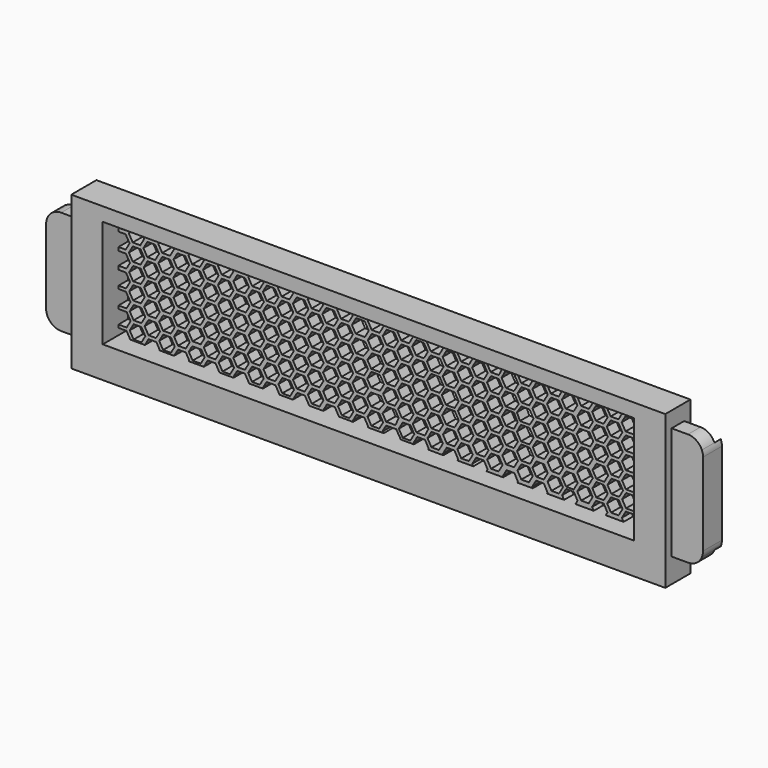
from build123d import *

# Parameters (mm, degrees)
F1_DEPTH = 6
F2_DEPTH = 2
F3_DEPTH = 8
F4_W     = 23
F4_H     = 4
F4_W_2   = 22.5
F5_DEPTH = 5
F6_DEPTH = 3


with BuildPart() as f1:
    # F0 (on Front) → F1 (new body)
    with BuildSketch(Plane.XZ):
        with BuildLine():
            Line((-85.422808, 9.222019), (-85.422808, 31.025267))
            ThreePointArc((-85.422808, 31.025267), (-85.64706, 30.296735), (-85.722808, 29.538243))
            Line((-85.722808, 29.538243), (-85.722808, 10.709043))
            ThreePointArc((-85.722808, 10.709043), (-85.64706, 9.950551), (-85.422808, 9.222019))
        make_face()
        with BuildLine():
            ThreePointArc((81.277192, 31.73826), (81.201444, 32.496752), (80.977192, 33.225284))
            Line((80.977192, 33.225284), (80.977192, 9.222019))
            ThreePointArc((80.977192, 9.222019), (81.201444, 9.950551), (81.277192, 10.709043))
            Line((81.277192, 10.709043), (81.277192, 31.73826))
        make_face()
        with BuildLine():
            Line((77.441792, 35.57366), (73.277192, 35.57366))
            Line((73.277192, 35.57366), (73.277192, 11.555429))
            Line((73.277192, 11.555429), (73.277192, 8.673643))
            Line((73.277192, 8.673643), (73.277192, 6.873643))
            Line((73.277192, 6.873643), (77.441792, 6.873643))
            ThreePointArc((77.441792, 6.873643), (79.563932, 7.514232), (80.977192, 9.222019))
            Line((80.977192, 9.222019), (80.977192, 33.225284))
            ThreePointArc((80.977192, 33.225284), (79.563932, 34.93307), (77.441792, 35.57366))
        make_face()
        Polygon((-69.722808, 39.57366), (-77.722808, 39.57366), (-77.722808, 36.101024), (-77.722808, 33.373643), (-77.722808, 15.555412), (-77.722808, 8.673643), (-77.722808, 6.873643), (-77.722808, 0.673643), (-69.722808, 0.673643), (65.277192, 0.673643), (73.277192, 0.673643), (73.277192, 6.873643), (73.277192, 8.673643), (73.277192, 11.555429), (73.277192, 35.57366), (73.277192, 39.57366), (65.277192, 39.57366), align=None)
        Polygon((-69.722808, 32.734791), (-69.722808, 36.101024), (-67.860355, 36.101024), (-66.85958, 36.101024), (-63.504682, 36.101024), (-62.491797, 36.101024), (-61.722808, 36.101024), (-60.302381, 36.101024), (-59.301607, 36.101024), (-58.722808, 36.101024), (-55.826406, 36.101024), (-54.813521, 36.101024), (-52.703507, 36.101024), (-51.702733, 36.101024), (-50.722808, 36.101024), (-48.391463, 36.101024), (-47.722808, 36.101024), (-47.378578, 36.101024), (-45.145534, 36.101024), (-44.14476, 36.101024), (-40.63569, 36.101024), (-39.722808, 36.101024), (-39.622805, 36.101024), (-37.447651, 36.101024), (-36.722808, 36.101024), (-36.446876, 36.101024), (-33.200748, 36.101024), (-32.187863, 36.101024), (-29.889677, 36.101024), (-28.888903, 36.101024), (-28.722808, 36.101024), (-25.722808, 36.101024), (-25.482402, 36.101024), (-24.469517, 36.101024), (-22.367012, 36.101024), (-21.366237, 36.101024), (-18.047459, 36.101024), (-17.722808, 36.101024), (-17.034574, 36.101024), (-14.809038, 36.101024), (-13.808264, 36.101024), (-10.6425, 36.101024), (-9.62435, 36.101024), (-6.902499, 36.101024), (-5.735991, 36.101024), (-2.722514, 36.101024), (-1.653215, 36.101024), (0.621126, 36.101024), (1.632544, 36.101024), (4.734077, 36.101024), (5.770914, 36.101024), (8.203433, 36.101024), (9.2415, 36.101024), (12.369307, 36.101024), (13.333306, 36.101024), (15.32699, 36.101024), (16.728552, 36.101024), (19.73759, 36.101024), (20.740602, 36.101024), (23.400282, 36.101024), (24.277192, 36.101024), (24.567515, 36.101024), (27.26276, 36.101024), (28.138225, 36.101024), (31.536045, 36.101024), (32.277192, 36.101024), (32.395089, 36.101024), (34.879542, 36.101024), (35.277192, 36.101024), (35.795435, 36.101024), (38.960265, 36.101024), (40.082366, 36.101024), (42.348032, 36.101024), (43.277192, 36.101024), (43.673012, 36.101024), (46.277192, 36.101024), (46.28527, 36.101024), (47.461446, 36.101024), (50.2453, 36.101024), (51.417317, 36.101024), (53.368453, 36.101024), (54.277192, 36.101024), (54.502689, 36.101024), (57.277192, 36.101024), (57.890565, 36.101024), (58.969307, 36.101024), (61.463302, 36.101024), (62.408669, 36.101024), (65.226473, 36.101024), (65.277192, 36.101024), (65.277192, 33.791259), (65.277192, 32.087259), (65.277192, 29.688526), (65.277192, 27.954504), (65.277192, 25.129406), (65.277192, 23.189055), (65.277192, 21.346921), (65.277192, 18.72137), (65.277192, 17.058082), (65.277192, 14.40296), (65.277192, 12.234595), (65.277192, 10.704704), (65.277192, 8.673643), (61.705402, 8.673643), (58.694264, 8.673643), (57.277192, 8.673643), (54.277192, 8.673643), (54.150706, 8.673643), (51.081302, 8.673643), (46.448752, 8.673643), (46.277192, 8.673643), (43.562767, 8.673643), (43.277192, 8.673643), (39.16903, 8.673643), (35.582665, 8.673643), (35.277192, 8.673643), (32.277192, 8.673643), (31.731004, 8.673643), (28.065354, 8.673643), (24.277192, 8.673643), (23.834723, 8.673643), (20.473113, 8.673643), (17.277192, 8.673643), (16.461746, 8.673643), (13.277192, 8.673643), (12.875776, 8.673643), (9.004685, 8.673643), (7.512836, 8.673643), (5.362624, 8.673643), (2.053913, 8.673643), (-2.30334, 8.673643), (-6.337833, 8.673643), (-10.086216, 8.673643), (-11.958453, 8.673643), (-13.772702, 8.673643), (-17.644153, 8.673643), (-17.722808, 8.673643), (-21.215137, 8.673643), (-25.395944, 8.673643), (-25.722808, 8.673643), (-28.722808, 8.673643), (-28.773073, 8.673643), (-33.021961, 8.673643), (-36.570876, 8.673643), (-40.458222, 8.673643), (-44.086937, 8.673643), (-47.722808, 8.673643), (-48.016159, 8.673643), (-50.722808, 8.673643), (-51.856406, 8.673643), (-55.580348, 8.673643), (-58.722808, 8.673643), (-59.232505, 8.673643), (-61.722808, 8.673643), (-63.015397, 8.673643), (-66.709528, 8.673643), (-69.722808, 8.673643), (-69.722808, 10.33091), (-69.722808, 11.078399), (-69.722808, 14.55916), (-69.722808, 15.344723), (-69.722808, 19.037227), (-69.722808, 19.782315), (-69.722808, 23.330104), (-69.722808, 24.25264), (-69.722808, 27.551966), (-69.722808, 28.431171), (-69.722808, 31.868539), align=None, mode=Mode.SUBTRACT)
        with BuildLine():
            Line((-77.722808, 15.555412), (-77.722808, 33.373643))
            Line((-77.722808, 33.373643), (-81.887408, 33.373643))
            ThreePointArc((-81.887408, 33.373643), (-84.009549, 32.733053), (-85.422808, 31.025267))
            Line((-85.422808, 31.025267), (-85.422808, 9.222019))
            ThreePointArc((-85.422808, 9.222019), (-84.009549, 7.514232), (-81.887408, 6.873643))
            Line((-81.887408, 6.873643), (-77.722808, 6.873643))
            Line((-77.722808, 6.873643), (-77.722808, 8.673643))
            Line((-77.722808, 8.673643), (-77.722808, 15.555412))
        make_face()
    extrude(amount=F1_DEPTH)

    # F0 (on Front) → F2 (cut)
    with BuildSketch(Plane.XZ):
        with BuildLine():
            Line((-77.722808, 15.555412), (-77.722808, 33.373643))
            Line((-77.722808, 33.373643), (-81.887408, 33.373643))
            ThreePointArc((-81.887408, 33.373643), (-84.009549, 32.733053), (-85.422808, 31.025267))
            Line((-85.422808, 31.025267), (-85.422808, 9.222019))
            ThreePointArc((-85.422808, 9.222019), (-84.009549, 7.514232), (-81.887408, 6.873643))
            Line((-81.887408, 6.873643), (-77.722808, 6.873643))
            Line((-77.722808, 6.873643), (-77.722808, 8.673643))
            Line((-77.722808, 8.673643), (-77.722808, 15.555412))
        make_face()
        with BuildLine():
            Line((77.441792, 35.57366), (73.277192, 35.57366))
            Line((73.277192, 35.57366), (73.277192, 11.555429))
            Line((73.277192, 11.555429), (73.277192, 8.673643))
            Line((73.277192, 8.673643), (73.277192, 6.873643))
            Line((73.277192, 6.873643), (77.441792, 6.873643))
            ThreePointArc((77.441792, 6.873643), (79.563932, 7.514232), (80.977192, 9.222019))
            Line((80.977192, 9.222019), (80.977192, 33.225284))
            ThreePointArc((80.977192, 33.225284), (79.563932, 34.93307), (77.441792, 35.57366))
        make_face()
    extrude(amount=F2_DEPTH, mode=Mode.SUBTRACT)

    # F0 (on Front) → F3 (join)
    with BuildSketch(Plane.XZ):
        Polygon((-69.722808, 39.57366), (-77.722808, 39.57366), (-77.722808, 36.101024), (-77.722808, 33.373643), (-77.722808, 15.555412), (-77.722808, 8.673643), (-77.722808, 6.873643), (-77.722808, 0.673643), (-69.722808, 0.673643), (65.277192, 0.673643), (73.277192, 0.673643), (73.277192, 6.873643), (73.277192, 8.673643), (73.277192, 11.555429), (73.277192, 35.57366), (73.277192, 39.57366), (65.277192, 39.57366), align=None)
        Polygon((-69.722808, 32.734791), (-69.722808, 36.101024), (-67.860355, 36.101024), (-66.85958, 36.101024), (-63.504682, 36.101024), (-62.491797, 36.101024), (-61.722808, 36.101024), (-60.302381, 36.101024), (-59.301607, 36.101024), (-58.722808, 36.101024), (-55.826406, 36.101024), (-54.813521, 36.101024), (-52.703507, 36.101024), (-51.702733, 36.101024), (-50.722808, 36.101024), (-48.391463, 36.101024), (-47.722808, 36.101024), (-47.378578, 36.101024), (-45.145534, 36.101024), (-44.14476, 36.101024), (-40.63569, 36.101024), (-39.722808, 36.101024), (-39.622805, 36.101024), (-37.447651, 36.101024), (-36.722808, 36.101024), (-36.446876, 36.101024), (-33.200748, 36.101024), (-32.187863, 36.101024), (-29.889677, 36.101024), (-28.888903, 36.101024), (-28.722808, 36.101024), (-25.722808, 36.101024), (-25.482402, 36.101024), (-24.469517, 36.101024), (-22.367012, 36.101024), (-21.366237, 36.101024), (-18.047459, 36.101024), (-17.722808, 36.101024), (-17.034574, 36.101024), (-14.809038, 36.101024), (-13.808264, 36.101024), (-10.6425, 36.101024), (-9.62435, 36.101024), (-6.902499, 36.101024), (-5.735991, 36.101024), (-2.722514, 36.101024), (-1.653215, 36.101024), (0.621126, 36.101024), (1.632544, 36.101024), (4.734077, 36.101024), (5.770914, 36.101024), (8.203433, 36.101024), (9.2415, 36.101024), (12.369307, 36.101024), (13.333306, 36.101024), (15.32699, 36.101024), (16.728552, 36.101024), (19.73759, 36.101024), (20.740602, 36.101024), (23.400282, 36.101024), (24.277192, 36.101024), (24.567515, 36.101024), (27.26276, 36.101024), (28.138225, 36.101024), (31.536045, 36.101024), (32.277192, 36.101024), (32.395089, 36.101024), (34.879542, 36.101024), (35.277192, 36.101024), (35.795435, 36.101024), (38.960265, 36.101024), (40.082366, 36.101024), (42.348032, 36.101024), (43.277192, 36.101024), (43.673012, 36.101024), (46.277192, 36.101024), (46.28527, 36.101024), (47.461446, 36.101024), (50.2453, 36.101024), (51.417317, 36.101024), (53.368453, 36.101024), (54.277192, 36.101024), (54.502689, 36.101024), (57.277192, 36.101024), (57.890565, 36.101024), (58.969307, 36.101024), (61.463302, 36.101024), (62.408669, 36.101024), (65.226473, 36.101024), (65.277192, 36.101024), (65.277192, 33.791259), (65.277192, 32.087259), (65.277192, 29.688526), (65.277192, 27.954504), (65.277192, 25.129406), (65.277192, 23.189055), (65.277192, 21.346921), (65.277192, 18.72137), (65.277192, 17.058082), (65.277192, 14.40296), (65.277192, 12.234595), (65.277192, 10.704704), (65.277192, 8.673643), (61.705402, 8.673643), (58.694264, 8.673643), (57.277192, 8.673643), (54.277192, 8.673643), (54.150706, 8.673643), (51.081302, 8.673643), (46.448752, 8.673643), (46.277192, 8.673643), (43.562767, 8.673643), (43.277192, 8.673643), (39.16903, 8.673643), (35.582665, 8.673643), (35.277192, 8.673643), (32.277192, 8.673643), (31.731004, 8.673643), (28.065354, 8.673643), (24.277192, 8.673643), (23.834723, 8.673643), (20.473113, 8.673643), (17.277192, 8.673643), (16.461746, 8.673643), (13.277192, 8.673643), (12.875776, 8.673643), (9.004685, 8.673643), (7.512836, 8.673643), (5.362624, 8.673643), (2.053913, 8.673643), (-2.30334, 8.673643), (-6.337833, 8.673643), (-10.086216, 8.673643), (-11.958453, 8.673643), (-13.772702, 8.673643), (-17.644153, 8.673643), (-17.722808, 8.673643), (-21.215137, 8.673643), (-25.395944, 8.673643), (-25.722808, 8.673643), (-28.722808, 8.673643), (-28.773073, 8.673643), (-33.021961, 8.673643), (-36.570876, 8.673643), (-40.458222, 8.673643), (-44.086937, 8.673643), (-47.722808, 8.673643), (-48.016159, 8.673643), (-50.722808, 8.673643), (-51.856406, 8.673643), (-55.580348, 8.673643), (-58.722808, 8.673643), (-59.232505, 8.673643), (-61.722808, 8.673643), (-63.015397, 8.673643), (-66.709528, 8.673643), (-69.722808, 8.673643), (-69.722808, 10.33091), (-69.722808, 11.078399), (-69.722808, 14.55916), (-69.722808, 15.344723), (-69.722808, 19.037227), (-69.722808, 19.782315), (-69.722808, 23.330104), (-69.722808, 24.25264), (-69.722808, 27.551966), (-69.722808, 28.431171), (-69.722808, 31.868539), align=None, mode=Mode.SUBTRACT)
    extrude(amount=F3_DEPTH)

    # F4 (on Top) → F5 (cut)
    with BuildSketch(Plane.XY):
        Polygon((-75.366058, -1.990048), (-75.366058, -5.990048), (-52.866058, -5.990048), (-52.866058, -3.990048), (-52.866058, -1.990048), align=None)
        Polygon((-42.866058, -1.990048), (-42.866058, -5.990048), (-19.866058, -5.990048), (-19.866058, -3.990048), (-19.866058, -1.990048), align=None)
        with Locations((23.633942, -3.990048)):
            Rectangle(F4_W, F4_H)
        with Locations((56.383942, -3.990048)):
            Rectangle(F4_W_2, F4_H)
    extrude(amount=F5_DEPTH, mode=Mode.SUBTRACT)

    # F0 (on Front) → F6 (join)
    with BuildSketch(Plane.XZ):
        Polygon((-67.900562, 32.734791), (-69.722808, 32.734791), (-69.722808, 31.868539), (-67.89291, 31.868539), (-66.899888, 30.149599), (-67.892023, 28.431171), (-69.722808, 28.431171), (-69.722808, 27.551966), (-67.818789, 27.551966), (-66.80242, 25.791564), (-67.689859, 24.25264), (-69.722808, 24.25264), (-69.722808, 23.330104), (-67.80162, 23.330104), (-66.765981, 21.536325), (-67.777452, 19.782315), (-69.722808, 19.782315), (-69.722808, 19.037227), (-67.799284, 19.037227), (-66.674846, 17.089644), (-67.681076, 15.344723), (-69.722808, 15.344723), (-69.722808, 14.55916), (-67.631376, 14.55916), (-66.636999, 12.836849), (-67.65103, 11.078399), (-69.722808, 11.078399), (-69.722808, 10.33091), (-67.666351, 10.33091), (-66.709528, 8.673643), (-63.015397, 8.673643), (-62.083938, 10.288903), (-60.099668, 10.288903), (-59.232505, 8.787828), (-59.232505, 8.673643), (-58.722808, 8.673643), (-55.580348, 8.673643), (-55.254191, 9.239422), (-54.587535, 10.395482), (-52.603266, 10.395482), (-51.736103, 8.894407), (-51.856406, 8.673643), (-50.722808, 8.673643), (-48.016159, 8.673643), (-48.035818, 8.707693), (-47.04457, 10.426633), (-45.060301, 10.426633), (-44.067278, 8.707693), (-44.086937, 8.673643), (-40.458222, 8.673643), (-40.539415, 8.814273), (-39.548168, 10.533213), (-37.563898, 10.533213), (-36.570876, 8.814273), (-36.570876, 8.673643), (-33.021961, 8.673643), (-33.021961, 8.837327), (-32.093947, 10.467856), (-29.808963, 10.467856), (-28.773073, 8.673643), (-28.722808, 8.673643), (-25.722808, 8.673643), (-25.395944, 8.673643), (-24.314109, 10.574435), (-22.31256, 10.574435), (-21.215137, 8.673643), (-17.722808, 8.673643), (-17.644153, 8.673643), (-17.692697, 8.757724), (-16.70145, 10.476664), (-14.71718, 10.476664), (-13.724158, 8.757724), (-13.772702, 8.673643), (-11.958453, 8.673643), (-10.086216, 8.673643), (-10.196294, 8.864304), (-9.205047, 10.583244), (-7.220777, 10.583244), (-6.227755, 8.864304), (-6.337833, 8.673643), (-2.30334, 8.673643), (-2.67884, 8.887359), (-1.713628, 10.583244), (0.88745, 10.613559), (2.053913, 8.673643), (5.362624, 8.673643), (5.232151, 8.899629), (6.223399, 10.618569), (8.207668, 10.618569), (9.151395, 8.928055), (9.004685, 8.673643), (12.875776, 8.673643), (12.717241, 8.948233), (13.708489, 10.667174), (15.692758, 10.667174), (16.636485, 8.97666), (16.461746, 8.673643), (17.277192, 8.673643), (20.473113, 8.673643), (20.202331, 9.142651), (21.193578, 10.861591), (23.177848, 10.861591), (24.121575, 9.171078), (23.834723, 8.673643), (24.277192, 8.673643), (28.065354, 8.673643), (27.930442, 8.851024), (28.921689, 10.569964), (30.905959, 10.569964), (31.849686, 8.879451), (31.731004, 8.673643), (32.277192, 8.673643), (35.277192, 8.673643), (35.582665, 8.673643), (35.424327, 8.947892), (36.415575, 10.666832), (38.399844, 10.666832), (39.343571, 8.976318), (39.16903, 8.673643), (43.277192, 8.673643), (43.562767, 8.673643), (43.054031, 9.5548), (44.045278, 11.27374), (46.029548, 11.27374), (46.973275, 9.583227), (46.448752, 8.673643), (51.081302, 8.673643), (50.66433, 9.39586), (51.655577, 11.1148), (53.639847, 11.1148), (54.583574, 9.424287), (54.150706, 8.673643), (54.277192, 8.673643), (57.277192, 8.673643), (58.694264, 8.673643), (58.248141, 9.44635), (59.239389, 11.16529), (61.223659, 11.16529), (62.167386, 9.474776), (61.705402, 8.673643), (65.277192, 8.673643), (65.277192, 10.704704), (64.703805, 9.710384), (62.784041, 9.710384), (61.791906, 11.428812), (62.783153, 13.147752), (64.767423, 13.147752), (65.277192, 12.234595), (65.277192, 14.40296), (65.051753, 14.012489), (63.067483, 14.012489), (62.075348, 15.730917), (63.059126, 17.436904), (63.066596, 17.449857), (65.050865, 17.449857), (65.058348, 17.436904), (65.277192, 17.058082), (65.277192, 18.72137), (65.043214, 18.316109), (63.058944, 18.316109), (62.066809, 20.034537), (63.058057, 21.753477), (65.042327, 21.753477), (65.277192, 21.346921), (65.277192, 23.189055), (64.825254, 22.640269), (64.809365, 22.620974), (62.979874, 22.620974), (61.963076, 24.381071), (62.849279, 25.938137), (62.865697, 25.938137), (64.746633, 25.938137), (65.277192, 25.129406), (65.277192, 27.954504), (64.850599, 27.174192), (64.828135, 27.140885), (62.791183, 27.140885), (61.928543, 28.634131), (62.874073, 30.295435), (64.821698, 30.295435), (65.277192, 29.688526), (65.277192, 32.087259), (64.821698, 31.306949), (64.788554, 31.25017), (62.894911, 31.25017), (62.016642, 32.77047), (63.096936, 34.435747), (64.558635, 34.435747), (65.277192, 33.791259), (65.277192, 36.101024), (65.226473, 36.101024), (64.50658, 35.303304), (63.006482, 35.303304), (62.989525, 35.32327), (62.408669, 36.101024), (61.463302, 36.101024), (62.176136, 35.041956), (61.055984, 33.435658), (61.015878, 33.378569), (59.103888, 33.378569), (58.124531, 35.073853), (58.969307, 36.101024), (57.890565, 36.101024), (57.333602, 35.499248), (55.007888, 35.499248), (54.913294, 35.593808), (54.502689, 36.101024), (54.277192, 36.101024), (53.368453, 36.101024), (54.380913, 34.633636), (53.595703, 33.271989), (51.607485, 33.271989), (50.681565, 34.874774), (50.742224, 34.975871), (51.417317, 36.101024), (50.2453, 36.101024), (49.909764, 35.392669), (47.776271, 35.392669), (47.461446, 36.101024), (46.28527, 36.101024), (47.116197, 34.928829), (46.311205, 33.532878), (43.90439, 33.532878), (42.973255, 35.14469), (43.673012, 36.101024), (43.277192, 36.101024), (42.348032, 36.101024), (41.988134, 35.653557), (40.326439, 35.653557), (40.082366, 36.101024), (38.960265, 36.101024), (39.403755, 35.173508), (38.396205, 33.426298), (36.407987, 33.426298), (35.407451, 35.158245), (35.795435, 36.101024), (35.277192, 36.101024), (34.879542, 36.101024), (34.572903, 35.546978), (32.719098, 35.546978), (32.395089, 36.101024), (32.277192, 36.101024), (31.536045, 36.101024), (31.973732, 35.18204), (30.890156, 33.30299), (28.735311, 33.30299), (27.476182, 35.130027), (28.138225, 36.101024), (27.26276, 36.101024), (26.798842, 35.281916), (25.04808, 35.281916), (24.567515, 36.101024), (24.277192, 36.101024), (23.400282, 36.101024), (24.296766, 35.015807), (23.057308, 33.318717), (21.126376, 33.318717), (19.984476, 34.872144), (20.740602, 36.101024), (19.73759, 36.101024), (19.079241, 35.224886), (17.268282, 35.271321), (16.728552, 36.101024), (15.32699, 36.101024), (16.469217, 34.647281), (15.494077, 33.212137), (13.565206, 33.212137), (12.442085, 34.689924), (13.333306, 36.101024), (12.369307, 36.101024), (11.713491, 35.169426), (10.131817, 35.169426), (9.897516, 35.169426), (9.2415, 36.101024), (8.203433, 36.101024), (8.996173, 34.824643), (7.740019, 33.080827), (5.856353, 33.080827), (4.848961, 34.824643), (5.770914, 36.101024), (4.734077, 36.101024), (4.13606, 35.201507), (2.235144, 35.201507), (1.632544, 36.101024), (0.621126, 36.101024), (1.356816, 34.723362), (0.348168, 32.974248), (-1.640049, 32.974248), (-2.58907, 34.617021), (-1.653215, 36.101024), (-2.722514, 36.101024), (-3.45158, 35.094927), (-5.29855, 35.094927), (-5.735991, 36.101024), (-6.902499, 36.101024), (-6.123804, 34.644152), (-7.192117, 32.791571), (-7.194672, 32.793045), (-9.335804, 32.793045), (-10.416784, 34.664242), (-9.62435, 36.101024), (-10.6425, 36.101024), (-11.374111, 35.054961), (-13.203959, 35.054961), (-13.808264, 36.101024), (-14.809038, 36.101024), (-13.936757, 34.591088), (-14.928892, 32.87266), (-16.913162, 32.87266), (-17.905296, 34.591088), (-17.034574, 36.101024), (-17.722808, 36.101024), (-18.047459, 36.101024), (-18.712144, 34.948382), (-20.700362, 34.948382), (-21.366237, 36.101024), (-22.367012, 36.101024), (-21.43316, 34.484509), (-22.425295, 32.766081), (-24.409564, 32.766081), (-25.401699, 34.484509), (-24.469517, 36.101024), (-25.482402, 36.101024), (-26.049334, 35.117896), (-28.320955, 35.117896), (-28.888903, 36.101024), (-29.889677, 36.101024), (-29.053753, 34.654023), (-30.045888, 32.935596), (-32.030158, 32.935596), (-33.022293, 34.654023), (-32.187863, 36.101024), (-33.200748, 36.101024), (-33.82914, 35.011317), (-35.817358, 35.011317), (-36.446876, 36.101024), (-36.722808, 36.101024), (-37.447651, 36.101024), (-36.550156, 34.547444), (-37.542291, 32.829016), (-39.526561, 32.829016), (-40.518695, 34.547444), (-39.622805, 36.101024), (-39.722808, 36.101024), (-40.63569, 36.101024), (-41.235164, 35.061465), (-43.544212, 35.061465), (-44.14476, 36.101024), (-45.145534, 36.101024), (-44.27701, 34.597593), (-45.269145, 32.879165), (-47.253415, 32.879165), (-48.24555, 34.597593), (-47.378578, 36.101024), (-47.722808, 36.101024), (-48.391463, 36.101024), (-49.052397, 34.954886), (-51.040615, 34.954886), (-51.702733, 36.101024), (-52.703507, 36.101024), (-51.773413, 34.491013), (-52.765548, 32.772585), (-54.749818, 32.772585), (-55.741953, 34.491013), (-54.813521, 36.101024), (-55.826406, 36.101024), (-56.447674, 35.023671), (-58.679226, 35.023671), (-59.301607, 36.101024), (-60.302381, 36.101024), (-59.412024, 34.559798), (-60.404159, 32.84137), (-62.388428, 32.84137), (-63.380563, 34.559798), (-62.491797, 36.101024), (-63.504682, 36.101024), (-64.187411, 34.917091), (-66.175629, 34.917091), (-66.85958, 36.101024), (-67.860355, 36.101024), (-66.908427, 34.453219), align=None)
        Polygon((-62.89321, 10.690642), (-63.885345, 8.972214), (-65.869614, 8.972214), (-66.861749, 10.690642), (-65.877971, 12.39663), (-65.870502, 12.409583), (-63.886232, 12.409583), (-63.878749, 12.39663), align=None, mode=Mode.SUBTRACT)
        Polygon((-62.901749, 14.994262), (-63.893883, 13.275834), (-65.878153, 13.275834), (-66.870288, 14.994262), (-65.879041, 16.713202), (-63.894771, 16.713202), align=None, mode=Mode.SUBTRACT)
        Polygon((-55.396807, 10.797222), (-56.388942, 9.078794), (-58.373212, 9.078794), (-59.365346, 10.797222), (-58.374099, 12.516162), (-56.389829, 12.516162), align=None, mode=Mode.SUBTRACT)
        Polygon((-50.871733, 9.130527), (-51.847892, 10.820277), (-50.999853, 12.310288), (-48.651914, 12.310288), (-47.811067, 10.853899), (-48.804871, 9.130527), align=None, mode=Mode.SUBTRACT)
        Polygon((-60.108207, 14.592523), (-59.16448, 12.90201), (-60.171825, 11.155155), (-62.091589, 11.155155), (-63.083724, 12.873583), (-62.092477, 14.592523), align=None, mode=Mode.SUBTRACT)
        Polygon((-58.382638, 16.819782), (-56.398916, 16.819782), (-56.398368, 16.819782), (-55.405346, 15.100842), (-55.405915, 15.099855), (-56.397481, 13.382414), (-58.38175, 13.382414), (-59.373885, 15.100842), align=None, mode=Mode.SUBTRACT)
        Polygon((-51.618782, 12.980162), (-52.610917, 11.261734), (-54.595187, 11.261734), (-55.587321, 12.980162), (-54.596074, 14.699102), (-52.611804, 14.699102), align=None, mode=Mode.SUBTRACT)
        Polygon((-48.044357, 13.011313), (-47.065018, 14.709601), (-45.056909, 14.709601), (-44.075817, 13.011313), (-45.067952, 11.292885), (-47.052222, 11.292885), align=None, mode=Mode.SUBTRACT)
        Polygon((-51.939244, 15.267248), (-51.049645, 16.830281), (-48.80608, 16.830281), (-47.829952, 15.139578), (-48.81027, 13.439592), (-50.883417, 13.439592), align=None, mode=Mode.SUBTRACT)
        Polygon((-63.022192, 19.390119), (-64.014327, 17.671691), (-65.998597, 17.671691), (-66.990732, 19.390119), (-65.999484, 21.109059), (-64.015215, 21.109059), align=None, mode=Mode.SUBTRACT)
        Polygon((-59.235629, 17.269439), (-60.227764, 15.551012), (-62.212033, 15.551012), (-63.204168, 17.269439), (-62.212921, 18.98838), (-60.228651, 18.98838), align=None, mode=Mode.SUBTRACT)
        Polygon((-51.739226, 17.376019), (-52.731361, 15.657591), (-54.71563, 15.657591), (-55.707765, 17.376019), (-54.723987, 19.082006), (-54.716518, 19.094959), (-52.732248, 19.094959), (-52.724765, 19.082006), align=None, mode=Mode.SUBTRACT)
        Polygon((-44.100615, 17.307234), (-45.09275, 15.588806), (-47.07702, 15.588806), (-48.069155, 17.307234), (-47.077907, 19.026174), (-45.093638, 19.026174), align=None, mode=Mode.SUBTRACT)
        Polygon((-55.52579, 19.496698), (-56.517924, 17.77827), (-58.502194, 17.77827), (-59.494329, 19.496698), (-58.503082, 21.215639), (-56.518812, 21.215639), align=None, mode=Mode.SUBTRACT)
        Polygon((-47.887179, 19.427914), (-48.879314, 17.709486), (-50.863584, 17.709486), (-51.855718, 19.427914), (-50.864471, 21.146854), (-48.880201, 21.146854), align=None, mode=Mode.SUBTRACT)
        Polygon((-41.282276, 12.609574), (-40.338549, 10.91906), (-41.345894, 9.172206), (-43.265658, 9.172206), (-44.257793, 10.890634), (-43.266546, 12.609574), align=None, mode=Mode.SUBTRACT)
        Polygon((-32.792851, 10.997213), (-33.784986, 9.278785), (-35.769255, 9.278785), (-36.76139, 10.997213), (-35.770143, 12.716153), (-33.785873, 12.716153), align=None, mode=Mode.SUBTRACT)
        Polygon((-25.103498, 10.944809), (-26.095633, 9.226381), (-28.079903, 9.226381), (-29.072038, 10.944809), (-28.08079, 12.663749), (-26.096521, 12.663749), align=None, mode=Mode.SUBTRACT)
        Polygon((-36.579414, 13.117892), (-37.571549, 11.399464), (-39.555819, 11.399464), (-40.547954, 13.117892), (-39.556706, 14.836833), (-37.572437, 14.836833), align=None, mode=Mode.SUBTRACT)
        Polygon((-44.372397, 15.072374), (-43.311226, 16.93686), (-41.309677, 16.93686), (-40.333549, 15.246157), (-41.354801, 13.475186), (-43.343019, 13.475186), align=None, mode=Mode.SUBTRACT)
        Polygon((-36.897546, 15.141087), (-35.904025, 16.886712), (-33.582822, 16.886712), (-32.729961, 15.409512), (-33.802677, 13.581765), (-35.846616, 13.581765), align=None, mode=Mode.SUBTRACT)
        Polygon((-28.890062, 13.065488), (-29.882197, 11.34706), (-31.866467, 11.34706), (-32.858601, 13.065488), (-31.867354, 14.784428), (-29.883084, 14.784428), align=None, mode=Mode.SUBTRACT)
        Polygon((-21.393659, 13.172068), (-22.385794, 11.45364), (-24.370064, 11.45364), (-25.362199, 13.172068), (-24.370951, 14.891008), (-22.386681, 14.891008), align=None, mode=Mode.SUBTRACT)
        Polygon((-26.105059, 16.967369), (-25.161333, 15.276856), (-26.168677, 13.530001), (-28.088442, 13.530001), (-29.080577, 15.248429), (-28.089329, 16.967369), align=None, mode=Mode.SUBTRACT)
        Polygon((-17.607096, 11.051388), (-18.59923, 9.33296), (-20.5835, 9.33296), (-21.575635, 11.051388), (-20.584388, 12.770328), (-18.600118, 12.770328), align=None, mode=Mode.SUBTRACT)
        Polygon((-10.939155, 12.659605), (-9.995428, 10.969092), (-11.002773, 9.222237), (-12.922538, 9.222237), (-13.914672, 10.940665), (-12.923425, 12.659605), align=None, mode=Mode.SUBTRACT)
        Polygon((-2.44973, 11.047244), (-3.441865, 9.328816), (-5.426135, 9.328816), (-6.41827, 11.047244), (-5.427022, 12.766184), (-3.442752, 12.766184), align=None, mode=Mode.SUBTRACT)
        Polygon((-13.732697, 13.061344), (-14.724831, 11.342916), (-16.709101, 11.342916), (-17.701236, 13.061344), (-16.709989, 14.780284), (-14.725719, 14.780284), align=None, mode=Mode.SUBTRACT)
        Polygon((-6.236294, 13.167924), (-7.228429, 11.449496), (-9.212698, 11.449496), (-10.204833, 13.167924), (-9.213586, 14.886864), (-7.229316, 14.886864), align=None, mode=Mode.SUBTRACT)
        Polygon((-10.969424, 16.930356), (-10.008172, 15.26542), (-11.011681, 13.525217), (-12.999899, 13.525217), (-13.961564, 15.189878), (-12.970973, 16.930356), align=None, mode=Mode.SUBTRACT)
        Polygon((-5.503496, 13.631796), (-6.465162, 15.296458), (-5.626649, 16.76973), (-3.076266, 16.76973), (-2.211232, 15.271447), (-3.445359, 13.631796), align=None, mode=Mode.SUBTRACT)
        Polygon((-36.604212, 17.413813), (-37.596347, 15.695385), (-39.580617, 15.695385), (-40.572752, 17.413813), (-39.581505, 19.132754), (-37.597235, 19.132754), align=None, mode=Mode.SUBTRACT)
        Polygon((-31.853763, 15.645237), (-31.856905, 15.65068), (-31.875005, 15.65068), (-32.86714, 17.369108), (-31.879032, 19.082605), (-31.85465, 19.082605), (-29.888478, 19.082605), (-29.87038, 19.082605), (-29.862898, 19.069652), (-28.877358, 17.363665), (-29.869493, 15.645237), align=None, mode=Mode.SUBTRACT)
        Polygon((-22.369947, 15.75726), (-22.394333, 15.75726), (-24.378602, 15.75726), (-25.370737, 17.475688), (-24.37949, 19.194628), (-22.39522, 19.194628), (-22.377228, 19.194628), (-22.373978, 19.189184), (-21.380955, 17.470244), align=None, mode=Mode.SUBTRACT)
        Polygon((-40.390776, 19.534493), (-41.382911, 17.816065), (-43.367181, 17.816065), (-44.359316, 19.534493), (-43.368068, 21.253433), (-41.383798, 21.253433), align=None, mode=Mode.SUBTRACT)
        Polygon((-32.663922, 19.484344), (-33.656057, 17.765916), (-35.640326, 17.765916), (-36.632461, 19.484344), (-35.648683, 21.190331), (-35.641214, 21.203284), (-33.656944, 21.203284), (-33.649461, 21.190331), align=None, mode=Mode.SUBTRACT)
        Polygon((-25.165681, 19.587742), (-25.173887, 19.573512), (-26.177585, 17.832981), (-28.165803, 17.832981), (-29.16092, 19.555548), (-29.136058, 19.590924), (-28.144811, 21.309864), (-26.160541, 21.309864), (-25.167519, 19.590924), align=None, mode=Mode.SUBTRACT)
        Polygon((-17.615634, 15.355008), (-18.607769, 13.63658), (-20.592039, 13.63658), (-21.584174, 15.355008), (-20.592926, 17.073948), (-18.608657, 17.073948), align=None, mode=Mode.SUBTRACT)
        Polygon((-13.760362, 17.30073), (-14.752497, 15.582302), (-16.736767, 15.582302), (-17.728901, 17.30073), (-16.737654, 19.01967), (-14.753384, 19.01967), align=None, mode=Mode.SUBTRACT)
        Polygon((-6.263959, 17.407309), (-7.256094, 15.688881), (-9.240364, 15.688881), (-10.232499, 17.407309), (-9.241251, 19.126249), (-7.256981, 19.126249), align=None, mode=Mode.SUBTRACT)
        Polygon((-17.546926, 19.421409), (-18.402471, 17.93956), (-20.659919, 17.93956), (-21.515465, 19.421409), (-20.524218, 21.140349), (-18.539948, 21.140349), align=None, mode=Mode.SUBTRACT)
        Polygon((-10.050523, 19.527989), (-11.042658, 17.809561), (-13.026927, 17.809561), (-14.019062, 19.527989), (-13.027815, 21.246929), (-11.043545, 21.246929), align=None, mode=Mode.SUBTRACT)
        Polygon((-5.535772, 17.879163), (-6.501608, 19.551043), (-5.446928, 21.404125), (-3.275777, 21.404125), (-2.230402, 19.593482), (-3.218984, 17.879163), align=None, mode=Mode.SUBTRACT)
        Polygon((4.528018, 12.668416), (5.471745, 10.977903), (4.4644, 9.231048), (2.544636, 9.231048), (1.552501, 10.949476), (2.543748, 12.668416), align=None, mode=Mode.SUBTRACT)
        Polygon((11.806522, 12.921734), (12.750249, 11.231221), (11.742905, 9.484366), (9.82314, 9.484366), (8.831005, 11.202794), (9.822253, 12.921734), align=None, mode=Mode.SUBTRACT)
        Polygon((19.407629, 12.904662), (20.351356, 11.214149), (19.344011, 9.467294), (17.424247, 9.467294), (16.432112, 11.185722), (17.423359, 12.904662), align=None, mode=Mode.SUBTRACT)
        Polygon((-1.679723, 11.446707), (-2.600732, 13.040991), (-1.360921, 14.849643), (0.594486, 14.849643), (1.48699, 13.303781), (0.7241, 11.475794), (-1.449251, 11.449496), align=None, mode=Mode.SUBTRACT)
        Polygon((5.063779, 13.154304), (6.08934, 14.956222), (8.090889, 14.956222), (9.053221, 13.289413), (8.161594, 11.565788), (6.03709, 11.540081), align=None, mode=Mode.SUBTRACT)
        Polygon((15.740212, 15.011744), (16.683939, 13.321231), (15.676594, 11.574376), (13.75683, 11.574376), (12.764695, 13.292804), (13.755942, 15.011744), align=None, mode=Mode.SUBTRACT)
        Polygon((26.968998, 13.048793), (27.912725, 11.358279), (26.90538, 9.611425), (24.985616, 9.611425), (23.993481, 11.329853), (24.984728, 13.048793), align=None, mode=Mode.SUBTRACT)
        Polygon((34.671693, 13.123366), (35.61542, 11.432853), (34.608075, 9.685998), (32.688311, 9.685998), (31.696176, 11.404426), (32.687423, 13.123366), align=None, mode=Mode.SUBTRACT)
        Polygon((24.32709, 13.443806), (23.334955, 11.725378), (21.350686, 11.725378), (20.358551, 13.443806), (21.342329, 15.149793), (21.349798, 15.162746), (23.334068, 15.162746), (23.341551, 15.149793), align=None, mode=Mode.SUBTRACT)
        Polygon((31.823493, 13.550385), (30.831358, 11.831957), (28.847088, 11.831957), (27.854953, 13.550385), (28.838731, 15.256372), (28.846201, 15.269325), (30.830471, 15.269325), (30.837953, 15.256372), align=None, mode=Mode.SUBTRACT)
        Polygon((38.466952, 14.99034), (39.410679, 13.299827), (38.403334, 11.552972), (36.483569, 11.552972), (35.491435, 13.2714), (36.482682, 14.99034), align=None, mode=Mode.SUBTRACT)
        Polygon((5.299951, 15.326596), (4.307816, 13.608168), (2.323546, 13.608168), (1.331411, 15.326596), (2.322659, 17.045536), (4.306928, 17.045536), align=None, mode=Mode.SUBTRACT)
        Polygon((1.513387, 17.447275), (0.521252, 15.728847), (-1.463018, 15.728847), (-2.455152, 17.447275), (-1.463905, 19.166215), (0.520365, 19.166215), align=None, mode=Mode.SUBTRACT)
        Polygon((9.00979, 17.553855), (8.017655, 15.835427), (6.033385, 15.835427), (5.04125, 17.553855), (6.032498, 19.272795), (8.016767, 19.272795), align=None, mode=Mode.SUBTRACT)
        Polygon((12.796353, 15.433175), (11.804219, 13.714747), (9.819949, 13.714747), (8.827814, 15.433175), (9.819061, 17.152115), (11.803331, 17.152115), align=None, mode=Mode.SUBTRACT)
        Polygon((20.540526, 15.564485), (19.548392, 13.846057), (17.564122, 13.846057), (16.571987, 15.564485), (17.563234, 17.283425), (19.547504, 17.283425), align=None, mode=Mode.SUBTRACT)
        Polygon((13.581725, 15.806042), (12.558704, 17.57691), (13.64601, 19.487314), (15.771004, 19.487314), (16.796738, 17.710691), (15.698399, 15.806042), align=None, mode=Mode.SUBTRACT)
        Polygon((4.29839, 21.349156), (5.242116, 19.658643), (4.234772, 17.911788), (2.315007, 17.911788), (1.322872, 19.630216), (2.31412, 21.349156), align=None, mode=Mode.SUBTRACT)
        Polygon((12.787815, 19.736795), (11.79568, 18.018367), (9.81141, 18.018367), (8.819275, 19.736795), (9.810523, 21.455735), (11.794792, 21.455735), align=None, mode=Mode.SUBTRACT)
        Polygon((20.531988, 19.868105), (19.539853, 18.149677), (17.555583, 18.149677), (16.563448, 19.868105), (17.554696, 21.587045), (19.538965, 21.587045), align=None, mode=Mode.SUBTRACT)
        Polygon((28.036929, 15.671065), (27.044794, 13.952637), (25.060525, 13.952637), (24.06839, 15.671065), (25.059637, 17.390005), (27.043907, 17.390005), align=None, mode=Mode.SUBTRACT)
        Polygon((32.607066, 13.926366), (31.585844, 15.69412), (32.627921, 17.525057), (34.796675, 17.525057), (35.832757, 15.73051), (34.936879, 13.926366), align=None, mode=Mode.SUBTRACT)
        Polygon((23.325529, 19.466366), (24.269256, 17.775852), (23.261911, 16.028998), (21.342147, 16.028998), (20.350012, 17.747426), (21.341259, 19.466366), align=None, mode=Mode.SUBTRACT)
        Polygon((28.028391, 19.974685), (27.036256, 18.256257), (25.051986, 18.256257), (24.059851, 19.974685), (25.051099, 21.693625), (27.035368, 21.693625), align=None, mode=Mode.SUBTRACT)
        Polygon((31.814954, 17.854005), (30.822819, 16.135577), (28.83855, 16.135577), (27.846415, 17.854005), (28.837662, 19.572945), (30.821932, 19.572945), align=None, mode=Mode.SUBTRACT)
        Polygon((39.561424, 17.899326), (38.569289, 16.180898), (36.585019, 16.180898), (35.592884, 17.899326), (36.576662, 19.605313), (36.584132, 19.618266), (38.568401, 19.618266), (38.575884, 19.605313), align=None, mode=Mode.SUBTRACT)
        Polygon((32.605885, 18.217249), (31.547956, 20.048543), (32.580413, 21.904493), (34.744363, 21.904493), (35.817635, 20.045532), (34.763333, 18.217249), align=None, mode=Mode.SUBTRACT)
        Polygon((42.330294, 13.094466), (43.274021, 11.403952), (42.266676, 9.657098), (40.346912, 9.657098), (39.354777, 11.375526), (40.346024, 13.094466), align=None, mode=Mode.SUBTRACT)
        Polygon((49.879688, 13.362724), (50.823415, 11.67221), (49.81607, 9.925356), (47.896305, 9.925356), (46.904171, 11.643784), (47.895418, 13.362724), align=None, mode=Mode.SUBTRACT)
        Polygon((57.466003, 13.139585), (58.40973, 11.449072), (57.402385, 9.702217), (55.482621, 9.702217), (54.490486, 11.420645), (55.481733, 13.139585), align=None, mode=Mode.SUBTRACT)
        Polygon((46.058445, 15.233094), (47.002172, 13.542581), (45.994827, 11.795726), (44.075063, 11.795726), (43.082928, 13.514154), (44.074175, 15.233094), align=None, mode=Mode.SUBTRACT)
        Polygon((53.721591, 15.324547), (54.665318, 13.634034), (53.657973, 11.887179), (51.738209, 11.887179), (50.746074, 13.605607), (51.737321, 15.324547), align=None, mode=Mode.SUBTRACT)
        Polygon((61.286784, 15.344788), (62.230511, 13.654274), (61.223166, 11.90742), (59.303401, 11.90742), (58.311267, 13.625848), (59.302514, 15.344788), align=None, mode=Mode.SUBTRACT)
        Polygon((43.347987, 15.778646), (42.355853, 14.060218), (40.371583, 14.060218), (39.379448, 15.778646), (40.363226, 17.484633), (40.370695, 17.497586), (42.354965, 17.497586), (42.362448, 17.484633), align=None, mode=Mode.SUBTRACT)
        Polygon((50.84439, 15.885226), (49.852255, 14.166798), (47.867986, 14.166798), (46.875851, 15.885226), (47.867098, 17.604166), (49.851368, 17.604166), align=None, mode=Mode.SUBTRACT)
        Polygon((58.547485, 15.624337), (57.55535, 13.905909), (55.57108, 13.905909), (54.578945, 15.624337), (55.562723, 17.330324), (55.570193, 17.343277), (57.554462, 17.343277), (57.561945, 17.330324), align=None, mode=Mode.SUBTRACT)
        Polygon((47.057827, 18.005905), (46.065692, 16.287477), (44.081422, 16.287477), (43.089287, 18.005905), (44.080535, 19.724845), (46.064804, 19.724845), align=None, mode=Mode.SUBTRACT)
        Polygon((42.346426, 21.801206), (43.290153, 20.110693), (42.282809, 18.363838), (40.363044, 18.363838), (39.370909, 20.082266), (40.362157, 21.801206), align=None, mode=Mode.SUBTRACT)
        Polygon((54.760921, 17.745017), (53.768786, 16.026589), (51.784517, 16.026589), (50.792382, 17.745017), (51.783629, 19.463957), (53.767899, 19.463957), align=None, mode=Mode.SUBTRACT)
        Polygon((62.257324, 17.851596), (61.265189, 16.133168), (59.280919, 16.133168), (58.288785, 17.851596), (59.280032, 19.570536), (61.264302, 19.570536), align=None, mode=Mode.SUBTRACT)
        Polygon((57.545924, 21.646897), (58.489651, 19.956384), (57.482306, 18.209529), (55.562541, 18.209529), (54.570407, 19.927957), (55.561654, 21.646897), align=None, mode=Mode.SUBTRACT)
        Polygon((-63.030731, 23.693739), (-64.022866, 21.975311), (-66.007136, 21.975311), (-66.999271, 23.693739), (-66.008023, 25.412679), (-64.023753, 25.412679), align=None, mode=Mode.SUBTRACT)
        Polygon((-60.23719, 23.291999), (-59.293463, 21.601486), (-60.300808, 19.854631), (-62.220572, 19.854631), (-63.212707, 21.573059), (-62.22146, 23.291999), align=None, mode=Mode.SUBTRACT)
        Polygon((-51.747765, 21.679639), (-52.7399, 19.961211), (-54.724169, 19.961211), (-55.716304, 21.679639), (-54.725057, 23.398579), (-52.740787, 23.398579), align=None, mode=Mode.SUBTRACT)
        Polygon((-45.102176, 23.329794), (-44.158449, 21.639281), (-45.165794, 19.892426), (-47.085559, 19.892426), (-48.077693, 21.610854), (-47.086446, 23.329794), align=None, mode=Mode.SUBTRACT)
        Polygon((-55.534328, 23.800318), (-56.526463, 22.08189), (-58.510733, 22.08189), (-59.502868, 23.800318), (-58.51162, 25.519258), (-56.527351, 25.519258), align=None, mode=Mode.SUBTRACT)
        Polygon((-47.895718, 23.731533), (-48.887853, 22.013105), (-50.872122, 22.013105), (-51.864257, 23.731533), (-50.87301, 25.450473), (-48.88874, 25.450473), align=None, mode=Mode.SUBTRACT)
        Polygon((-63.113324, 28.028919), (-64.105459, 26.310491), (-66.089729, 26.310491), (-67.081864, 28.028919), (-66.090616, 29.747859), (-64.106347, 29.747859), align=None, mode=Mode.SUBTRACT)
        Polygon((-63.314732, 25.917708), (-62.323935, 27.658546), (-60.322386, 27.658546), (-59.306017, 25.898143), (-60.309715, 24.157611), (-62.297933, 24.157611), align=None, mode=Mode.SUBTRACT)
        Polygon((-55.818329, 26.024288), (-54.927341, 27.589761), (-52.683775, 27.589761), (-51.667406, 25.829358), (-52.569979, 24.264191), (-54.80153, 24.264191), align=None, mode=Mode.SUBTRACT)
        Polygon((-48.179718, 25.955503), (-47.188922, 27.69634), (-45.187372, 27.69634), (-44.171004, 25.935938), (-45.174702, 24.195406), (-47.16292, 24.195406), align=None, mode=Mode.SUBTRACT)
        Polygon((-55.616921, 28.135499), (-56.609056, 26.417071), (-58.593326, 26.417071), (-59.585461, 28.135499), (-58.594214, 29.854439), (-56.609944, 29.854439), align=None, mode=Mode.SUBTRACT)
        Polygon((-47.978311, 28.066714), (-48.970446, 26.348286), (-50.954715, 26.348286), (-51.94685, 28.066714), (-50.963072, 29.772701), (-50.955603, 29.785654), (-48.971333, 29.785654), (-48.96385, 29.772701), align=None, mode=Mode.SUBTRACT)
        Polygon((-36.612751, 21.717433), (-37.604886, 19.999005), (-39.589156, 19.999005), (-40.581291, 21.717433), (-39.590043, 23.436373), (-37.605774, 23.436373), align=None, mode=Mode.SUBTRACT)
        Polygon((-29.878919, 23.386225), (-28.935192, 21.695711), (-29.942537, 19.948857), (-31.862301, 19.948857), (-32.854436, 21.667285), (-31.863189, 23.386225), align=None, mode=Mode.SUBTRACT)
        Polygon((-21.389494, 21.773864), (-22.381629, 20.055436), (-24.365899, 20.055436), (-25.358033, 21.773864), (-24.366786, 23.492804), (-22.382516, 23.492804), align=None, mode=Mode.SUBTRACT)
        Polygon((-40.399315, 23.838113), (-41.39145, 22.119685), (-43.375719, 22.119685), (-44.367854, 23.838113), (-43.376607, 25.557053), (-41.392337, 25.557053), align=None, mode=Mode.SUBTRACT)
        Polygon((-32.67246, 23.787964), (-33.664595, 22.069536), (-35.648865, 22.069536), (-36.641, 23.787964), (-35.649752, 25.506904), (-33.665483, 25.506904), align=None, mode=Mode.SUBTRACT)
        Polygon((-25.176058, 23.894544), (-26.168192, 22.176116), (-28.152462, 22.176116), (-29.144597, 23.894544), (-28.15335, 25.613484), (-26.16908, 25.613484), align=None, mode=Mode.SUBTRACT)
        Polygon((-14.761923, 23.32329), (-13.818196, 21.632776), (-14.825541, 19.885922), (-16.745305, 19.885922), (-17.73744, 21.60435), (-16.746193, 23.32329), align=None, mode=Mode.SUBTRACT)
        Polygon((-6.272498, 21.710929), (-7.264633, 19.992501), (-9.248902, 19.992501), (-10.241037, 21.710929), (-9.24979, 23.429869), (-7.26552, 23.429869), align=None, mode=Mode.SUBTRACT)
        Polygon((-17.555464, 23.725029), (-18.547599, 22.006601), (-20.531869, 22.006601), (-21.524004, 23.725029), (-20.532756, 25.443969), (-18.548487, 25.443969), align=None, mode=Mode.SUBTRACT)
        Polygon((-10.059061, 23.831608), (-11.051196, 22.113181), (-13.035466, 22.113181), (-14.027601, 23.831608), (-13.036354, 25.550549), (-11.052084, 25.550549), align=None, mode=Mode.SUBTRACT)
        Polygon((-5.474518, 22.06197), (-6.458309, 23.764931), (-5.253069, 25.609123), (-3.283209, 25.609123), (-2.26684, 23.84872), (-3.297191, 22.06197), align=None, mode=Mode.SUBTRACT)
        Polygon((-40.683315, 26.062082), (-39.78172, 27.646191), (-37.460518, 27.646191), (-36.444149, 25.885789), (-37.357468, 24.301985), (-39.666517, 24.301985), align=None, mode=Mode.SUBTRACT)
        Polygon((-32.956461, 26.011934), (-31.965664, 27.752771), (-29.964115, 27.752771), (-28.947746, 25.992368), (-29.951445, 24.251837), (-31.939662, 24.251837), align=None, mode=Mode.SUBTRACT)
        Polygon((-25.460058, 26.118513), (-24.6264, 27.583256), (-22.343522, 27.583256), (-21.327153, 25.822854), (-22.171638, 24.358416), (-24.44326, 24.358416), align=None, mode=Mode.SUBTRACT)
        Polygon((-40.481908, 28.173293), (-41.474043, 26.454865), (-43.458313, 26.454865), (-44.450447, 28.173293), (-43.46667, 29.879281), (-43.4592, 29.892233), (-41.47493, 29.892233), (-41.467448, 29.879281), align=None, mode=Mode.SUBTRACT)
        Polygon((-32.755054, 28.123145), (-33.747188, 26.404717), (-35.731458, 26.404717), (-36.723593, 28.123145), (-35.732346, 29.842085), (-33.748076, 29.842085), align=None, mode=Mode.SUBTRACT)
        Polygon((-25.2688, 28.212145), (-26.250786, 26.511296), (-28.235055, 26.511296), (-29.22719, 28.229724), (-28.243412, 29.935711), (-28.235943, 29.948664), (-26.271379, 29.948664), (-26.251673, 29.948664), (-26.24419, 29.935711), (-26.263901, 29.935711), align=None, mode=Mode.SUBTRACT)
        Polygon((-17.839465, 25.948999), (-16.848668, 27.689836), (-14.847119, 27.689836), (-13.83075, 25.929433), (-14.834449, 24.188902), (-16.822666, 24.188902), align=None, mode=Mode.SUBTRACT)
        Polygon((-10.343062, 26.055578), (-9.443953, 27.635319), (-7.015223, 27.635319), (-6.104652, 26.058164), (-7.455142, 24.295481), (-9.326264, 24.295481), align=None, mode=Mode.SUBTRACT)
        Polygon((-17.638057, 28.06021), (-18.630192, 26.341782), (-20.614462, 26.341782), (-21.606597, 28.06021), (-20.61535, 29.77915), (-18.63108, 29.77915), align=None, mode=Mode.SUBTRACT)
        Polygon((-10.141655, 28.166789), (-11.13379, 26.448361), (-13.118059, 26.448361), (-14.110194, 28.166789), (-13.118947, 29.885729), (-11.134677, 29.885729), align=None, mode=Mode.SUBTRACT)
        Polygon((-2.364309, 28.206755), (-3.356443, 26.488327), (-5.340713, 26.488327), (-6.332848, 28.206755), (-5.341601, 29.925695), (-3.357331, 29.925695), align=None, mode=Mode.SUBTRACT)
        Polygon((-64.114885, 34.051479), (-63.171158, 32.360966), (-64.178503, 30.614111), (-66.098268, 30.614111), (-67.090402, 32.332539), (-66.099155, 34.051479), align=None, mode=Mode.SUBTRACT)
        Polygon((-59.403485, 30.256178), (-60.39562, 28.53775), (-62.37989, 28.53775), (-63.372025, 30.256178), (-62.380777, 31.975118), (-60.396507, 31.975118), align=None, mode=Mode.SUBTRACT)
        Polygon((-51.764875, 30.187393), (-52.757009, 28.468965), (-54.741279, 28.468965), (-55.733414, 30.187393), (-54.742167, 31.906334), (-52.757897, 31.906334), align=None, mode=Mode.SUBTRACT)
        Polygon((-44.268472, 30.293973), (-45.260607, 28.575545), (-47.244876, 28.575545), (-48.237011, 30.293973), (-47.245764, 32.012913), (-45.261494, 32.012913), align=None, mode=Mode.SUBTRACT)
        Polygon((-55.62546, 32.439119), (-56.617595, 30.720691), (-58.601865, 30.720691), (-59.594, 32.439119), (-58.602752, 34.158059), (-56.618483, 34.158059), align=None, mode=Mode.SUBTRACT)
        Polygon((-48.979872, 34.089274), (-48.036145, 32.398761), (-49.04349, 30.651906), (-50.963254, 30.651906), (-51.955389, 32.370334), (-50.964142, 34.089274), align=None, mode=Mode.SUBTRACT)
        Polygon((-36.541617, 30.243824), (-37.533752, 28.525396), (-39.518022, 28.525396), (-40.510157, 30.243824), (-39.518909, 31.962764), (-37.53464, 31.962764), align=None, mode=Mode.SUBTRACT)
        Polygon((-29.045214, 30.350404), (-30.037349, 28.631976), (-32.021619, 28.631976), (-33.013754, 30.350404), (-32.022506, 32.069344), (-30.038237, 32.069344), align=None, mode=Mode.SUBTRACT)
        Polygon((-21.424621, 30.180889), (-22.416756, 28.462461), (-24.401026, 28.462461), (-25.393161, 30.180889), (-24.401913, 31.899829), (-22.417643, 31.899829), align=None, mode=Mode.SUBTRACT)
        Polygon((-40.490447, 32.476913), (-41.482582, 30.758485), (-43.466851, 30.758485), (-44.458986, 32.476913), (-43.467739, 34.195853), (-41.483469, 34.195853), align=None, mode=Mode.SUBTRACT)
        Polygon((-33.756615, 34.145705), (-32.812888, 32.455191), (-33.820233, 30.708337), (-35.739997, 30.708337), (-36.732132, 32.426765), (-35.740884, 34.145705), align=None, mode=Mode.SUBTRACT)
        Polygon((-25.26719, 32.533344), (-26.259324, 30.814916), (-28.243594, 30.814916), (-29.235729, 32.533344), (-28.244482, 34.252284), (-26.260212, 34.252284), align=None, mode=Mode.SUBTRACT)
        Polygon((-13.928218, 30.287469), (-14.920353, 28.569041), (-16.904623, 28.569041), (-17.896758, 30.287469), (-16.90551, 32.006409), (-14.921241, 32.006409), align=None, mode=Mode.SUBTRACT)
        Polygon((-9.414151, 28.639827), (-10.379304, 30.310523), (-9.318012, 32.175221), (-7.160179, 32.175221), (-6.108097, 30.352962), (-7.095997, 28.639827), align=None, mode=Mode.SUBTRACT)
        Polygon((-18.639619, 34.08277), (-17.695892, 32.392256), (-18.703236, 30.645401), (-20.623001, 30.645401), (-21.615136, 32.363829), (-20.623888, 34.08277), align=None, mode=Mode.SUBTRACT)
        Polygon((-10.150193, 32.470409), (-11.142328, 30.751981), (-13.126598, 30.751981), (-14.118733, 32.470409), (-13.127485, 34.189349), (-11.143216, 34.189349), align=None, mode=Mode.SUBTRACT)
        Polygon((-2.372847, 32.510375), (-3.364982, 30.791947), (-5.349252, 30.791947), (-6.341387, 32.510375), (-5.350139, 34.229315), (-3.36587, 34.229315), align=None, mode=Mode.SUBTRACT)
        Polygon((1.504848, 21.750895), (0.512713, 20.032467), (-1.471556, 20.032467), (-2.463691, 21.750895), (-1.472444, 23.469835), (0.511826, 23.469835), align=None, mode=Mode.SUBTRACT)
        Polygon((9.001251, 21.857475), (8.009116, 20.139047), (6.024846, 20.139047), (5.032712, 21.857475), (6.023959, 23.576415), (8.008229, 23.576415), align=None, mode=Mode.SUBTRACT)
        Polygon((13.538322, 20.170012), (12.455998, 22.043535), (13.464579, 23.726332), (15.74393, 23.726332), (16.760299, 21.96593), (15.724662, 20.170012), align=None, mode=Mode.SUBTRACT)
        Polygon((1.220848, 23.974865), (2.211644, 25.715702), (4.213193, 25.715702), (5.229562, 23.955299), (4.225864, 22.214768), (2.237646, 22.214768), align=None, mode=Mode.SUBTRACT)
        Polygon((8.717251, 24.081444), (9.745915, 25.888816), (11.933231, 25.888816), (12.990971, 24.056757), (11.884068, 22.359729), (11.815308, 22.321347), (9.734049, 22.321347), align=None, mode=Mode.SUBTRACT)
        Polygon((20.449395, 24.203286), (19.45726, 22.484858), (17.47299, 22.484858), (16.480855, 24.203286), (17.472102, 25.922226), (19.456372, 25.922226), align=None, mode=Mode.SUBTRACT)
        Polygon((20.247987, 22.092075), (21.238784, 23.832912), (23.240333, 23.832912), (24.256702, 22.072509), (23.253003, 20.331978), (21.264786, 20.331978), align=None, mode=Mode.SUBTRACT)
        Polygon((27.74439, 22.198654), (28.813954, 24.077886), (30.829595, 24.077886), (31.734582, 22.182256), (30.821842, 20.438557), (28.761189, 20.438557), align=None, mode=Mode.SUBTRACT)
        Polygon((39.552885, 22.202946), (38.56075, 20.484518), (36.57648, 20.484518), (35.584346, 22.202946), (36.575593, 23.921886), (38.559863, 23.921886), align=None, mode=Mode.SUBTRACT)
        Polygon((27.945797, 24.309865), (26.953663, 22.591437), (24.969393, 22.591437), (23.977258, 24.309865), (24.968505, 26.028805), (26.952775, 26.028805), align=None, mode=Mode.SUBTRACT)
        Polygon((31.565399, 24.370207), (32.694034, 26.061173), (34.764827, 26.061173), (35.781196, 24.30077), (34.838958, 22.666818), (32.322939, 22.666818), align=None, mode=Mode.SUBTRACT)
        Polygon((1.422255, 26.086076), (0.43012, 24.367648), (-1.55415, 24.367648), (-2.546284, 26.086076), (-1.555037, 27.805016), (0.429233, 27.805016), align=None, mode=Mode.SUBTRACT)
        Polygon((8.918658, 26.192655), (7.926523, 24.474227), (5.942253, 24.474227), (4.950118, 26.192655), (5.941366, 27.911595), (7.925636, 27.911595), align=None, mode=Mode.SUBTRACT)
        Polygon((16.662831, 26.323965), (15.670696, 24.605537), (13.686426, 24.605537), (12.694291, 26.323965), (13.685539, 28.042905), (15.669809, 28.042905), align=None, mode=Mode.SUBTRACT)
        Polygon((5.132094, 28.313335), (4.139959, 26.594907), (2.15569, 26.594907), (1.163555, 28.313335), (2.154802, 30.032275), (4.139072, 30.032275), align=None, mode=Mode.SUBTRACT)
        Polygon((9.684537, 26.599264), (8.681009, 28.33639), (9.626368, 29.997393), (12.0373, 29.997393), (12.919042, 28.470171), (11.840161, 26.599264), align=None, mode=Mode.SUBTRACT)
        Polygon((19.447833, 30.225846), (20.39156, 28.535332), (19.384216, 26.788478), (17.464451, 26.788478), (16.472316, 28.506906), (17.463564, 30.225846), align=None, mode=Mode.SUBTRACT)
        Polygon((24.159234, 26.430545), (23.167099, 24.712117), (21.182829, 24.712117), (20.190694, 26.430545), (21.181942, 28.149485), (23.166211, 28.149485), align=None, mode=Mode.SUBTRACT)
        Polygon((28.682558, 24.766878), (27.708148, 26.453599), (28.661159, 28.128047), (31.009328, 28.128047), (32.033334, 26.354417), (30.984079, 24.766878), align=None, mode=Mode.SUBTRACT)
        Polygon((39.470292, 26.538126), (38.478157, 24.819698), (36.493887, 24.819698), (35.501752, 26.538126), (36.493, 28.257066), (38.47727, 28.257066), align=None, mode=Mode.SUBTRACT)
        Polygon((27.937259, 28.613485), (26.945124, 26.895057), (24.960854, 26.895057), (23.968719, 28.613485), (24.959967, 30.332425), (26.944236, 30.332425), align=None, mode=Mode.SUBTRACT)
        Polygon((35.683728, 28.658806), (34.691593, 26.940378), (32.707324, 26.940378), (31.715189, 28.658806), (32.698967, 30.364793), (32.706436, 30.377746), (34.690706, 30.377746), (34.698189, 30.364793), align=None, mode=Mode.SUBTRACT)
        Polygon((50.835852, 20.188846), (49.843717, 18.470418), (47.859447, 18.470418), (46.867312, 20.188846), (47.858559, 21.907786), (49.842829, 21.907786), align=None, mode=Mode.SUBTRACT)
        Polygon((47.049288, 22.309525), (46.057153, 20.591097), (44.072883, 20.591097), (43.080748, 22.309525), (44.071996, 24.028465), (46.056266, 24.028465), align=None, mode=Mode.SUBTRACT)
        Polygon((54.752382, 22.048637), (53.760248, 20.330209), (51.775978, 20.330209), (50.783843, 22.048637), (51.77509, 23.767577), (53.75936, 23.767577), align=None, mode=Mode.SUBTRACT)
        Polygon((62.248785, 22.155216), (61.25665, 20.436788), (59.272381, 20.436788), (58.280246, 22.155216), (59.271493, 23.874156), (61.255763, 23.874156), align=None, mode=Mode.SUBTRACT)
        Polygon((39.268885, 24.426915), (40.259681, 26.167752), (42.26123, 26.167752), (43.277599, 24.40735), (42.273901, 22.666818), (40.285683, 22.666818), align=None, mode=Mode.SUBTRACT)
        Polygon((46.765287, 24.533495), (47.54694, 25.906864), (49.964325, 25.906864), (50.980694, 24.146461), (50.1889, 22.773398), (47.782086, 22.773398), align=None, mode=Mode.SUBTRACT)
        Polygon((54.468382, 24.272606), (55.459179, 26.013444), (57.460728, 26.013444), (58.477097, 24.253041), (57.473398, 22.512509), (55.48518, 22.512509), align=None, mode=Mode.SUBTRACT)
        Polygon((46.966695, 26.644706), (45.97456, 24.926278), (43.99029, 24.926278), (42.998155, 26.644706), (43.989403, 28.363646), (45.973672, 28.363646), align=None, mode=Mode.SUBTRACT)
        Polygon((54.669789, 26.383817), (53.677654, 24.665389), (51.693385, 24.665389), (50.70125, 26.383817), (51.692497, 28.102757), (53.676767, 28.102757), align=None, mode=Mode.SUBTRACT)
        Polygon((62.166192, 26.490397), (61.174057, 24.771969), (59.189787, 24.771969), (58.197653, 26.490397), (59.1889, 28.209337), (61.17317, 28.209337), align=None, mode=Mode.SUBTRACT)
        Polygon((50.883226, 28.504497), (49.891091, 26.786069), (47.906821, 26.786069), (46.914686, 28.504497), (47.905934, 30.223437), (49.890203, 30.223437), align=None, mode=Mode.SUBTRACT)
        Polygon((43.180131, 28.765385), (42.187996, 27.046957), (40.203726, 27.046957), (39.211592, 28.765385), (40.202839, 30.484325), (42.187109, 30.484325), align=None, mode=Mode.SUBTRACT)
        Polygon((58.379628, 28.611076), (57.387494, 26.892648), (55.403224, 26.892648), (54.411089, 28.611076), (55.402336, 30.330016), (57.386606, 30.330016), align=None, mode=Mode.SUBTRACT)
        Polygon((0.420694, 32.108636), (1.364421, 30.418122), (0.357076, 28.671268), (-1.562688, 28.671268), (-2.554823, 30.389696), (-1.563576, 32.108636), align=None, mode=Mode.SUBTRACT)
        Polygon((8.910119, 30.496275), (7.917984, 28.777847), (5.933715, 28.777847), (4.94158, 30.496275), (5.932827, 32.215215), (7.917097, 32.215215), align=None, mode=Mode.SUBTRACT)
        Polygon((16.654292, 30.627585), (15.662157, 28.909157), (13.677888, 28.909157), (12.685753, 30.627585), (13.677, 32.346525), (15.66127, 32.346525), align=None, mode=Mode.SUBTRACT)
        Polygon((5.123555, 32.616955), (4.131421, 30.898527), (2.147151, 30.898527), (1.155016, 32.616955), (2.146263, 34.335895), (4.130533, 34.335895), align=None, mode=Mode.SUBTRACT)
        Polygon((9.696825, 30.866831), (8.618268, 32.733834), (9.802942, 34.373934), (11.648117, 34.373934), (12.890072, 32.738361), (11.810832, 30.866831), align=None, mode=Mode.SUBTRACT)
        Polygon((19.120352, 34.475032), (20.377718, 32.829755), (19.375308, 31.091458), (17.38709, 31.091458), (16.3804, 32.834057), (17.474381, 34.475032), align=None, mode=Mode.SUBTRACT)
        Polygon((24.150695, 30.734164), (23.15856, 29.015737), (21.17429, 29.015737), (20.182156, 30.734164), (21.173403, 32.453105), (23.157673, 32.453105), align=None, mode=Mode.SUBTRACT)
        Polygon((28.780757, 28.885733), (27.663737, 30.819315), (28.598219, 32.611699), (30.896848, 32.611699), (31.939939, 30.805012), (30.833164, 28.885733), align=None, mode=Mode.SUBTRACT)
        Polygon((38.468731, 32.560686), (39.412458, 30.870173), (38.405113, 29.123318), (36.485349, 29.123318), (35.493214, 30.841746), (36.484461, 32.560686), align=None, mode=Mode.SUBTRACT)
        Polygon((24.883493, 31.198037), (23.857739, 32.973637), (24.837528, 34.479249), (24.868308, 34.479249), (26.836721, 34.479249), (27.878864, 32.994247), (26.945665, 31.198037), align=None, mode=Mode.SUBTRACT)
        Polygon((35.675189, 32.962426), (34.683055, 31.243998), (32.698785, 31.243998), (31.70665, 32.962426), (32.697897, 34.681366), (34.682167, 34.681366), align=None, mode=Mode.SUBTRACT)
        Polygon((46.958156, 30.948326), (45.966021, 29.229898), (43.981751, 29.229898), (42.989617, 30.948326), (43.980864, 32.667266), (45.965134, 32.667266), align=None, mode=Mode.SUBTRACT)
        Polygon((53.668228, 32.406377), (54.611955, 30.715864), (53.60461, 28.969009), (51.684846, 28.969009), (50.692711, 30.687437), (51.683958, 32.406377), align=None, mode=Mode.SUBTRACT)
        Polygon((62.157653, 30.794017), (61.165518, 29.075589), (59.181249, 29.075589), (58.189114, 30.794017), (59.180361, 32.512957), (61.164631, 32.512957), align=None, mode=Mode.SUBTRACT)
        Polygon((43.171592, 33.069005), (42.179457, 31.350577), (40.195188, 31.350577), (39.203053, 33.069005), (40.1943, 34.787945), (42.17857, 34.787945), align=None, mode=Mode.SUBTRACT)
        Polygon((50.874687, 32.808117), (49.882552, 31.089689), (47.898282, 31.089689), (46.906147, 32.808117), (47.897395, 34.527057), (49.881665, 34.527057), align=None, mode=Mode.SUBTRACT)
        Polygon((58.37109, 32.914696), (57.378955, 31.196268), (55.394685, 31.196268), (54.40255, 32.914696), (55.393798, 34.633636), (57.378067, 34.633636), align=None, mode=Mode.SUBTRACT)
    extrude(amount=F6_DEPTH)


solid = f1.part
